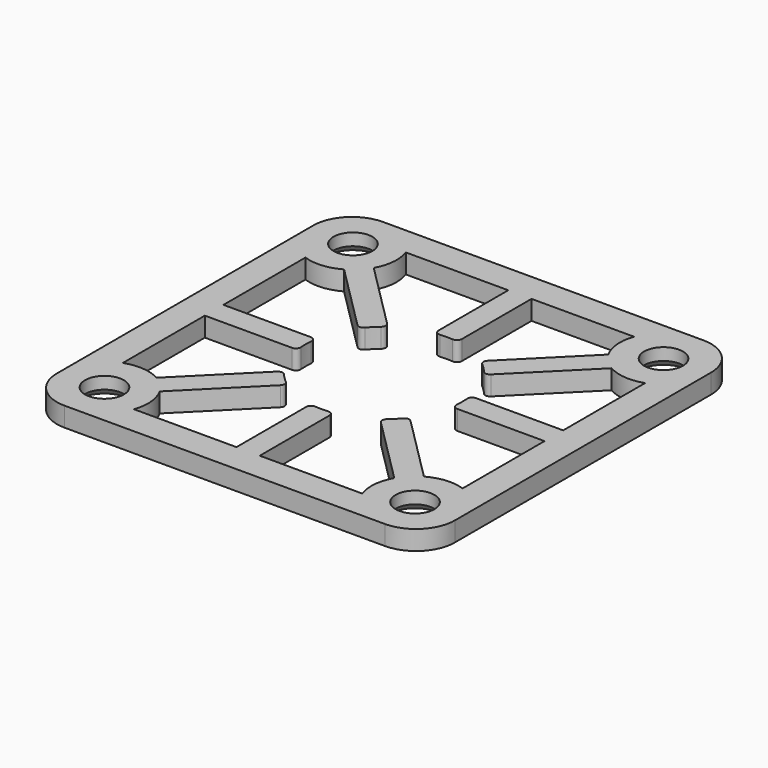
from build123d import *

# Parameters (mm, degrees)
SKETCH_W     = 41
SKETCH_H     = 41
SKETCH_R     = 2
PAD_DEPTH    = 2
FILLET_R     = 0.5
FILLET001_R  = 4
CHAMFER_SIZE = 0.75


with BuildPart() as part:
    # Sketch → Pad (new body)
    with BuildSketch(Plane.XY):
        Rectangle(SKETCH_W, SKETCH_H)
        with Locations((-16, 16)):
            Circle(SKETCH_R, mode=Mode.SUBTRACT)
        with Locations((16, 16)):
            Circle(SKETCH_R, mode=Mode.SUBTRACT)
        with Locations((-16, -16)):
            Circle(SKETCH_R, mode=Mode.SUBTRACT)
        with Locations((16, -16)):
            Circle(SKETCH_R, mode=Mode.SUBTRACT)
        with BuildLine():
            Line((-17.5, 1.2), (-7.960057, 1.2))
            ThreePointArc((-7.960057, 1.2), (-8.05, 0), (-7.960057, -1.2))
            Line((-17.5, -1.2), (-7.960057, -1.2))
            Line((-17.5, -1.2), (-17.5, -11.757359))
            ThreePointArc((-13.781771, -12.084715), (-15.605344, -11.517339), (-17.5, -11.757359))
            Line((-6.477138, -4.780082), (-13.781771, -12.084715))
            ThreePointArc((-6.477138, -4.780082), (-5.69221, -5.69221), (-4.780082, -6.477138))
            Line((-4.780082, -6.477138), (-12.084715, -13.781771))
            ThreePointArc((-11.757359, -17.5), (-11.517339, -15.605344), (-12.084715, -13.781771))
            Line((-11.757359, -17.5), (-1.2, -17.5))
            Line((-1.2, -7.960057), (-1.2, -17.5))
            ThreePointArc((-1.2, -7.960057), (0, -8.05), (1.2, -7.960057))
            Line((1.2, -7.960057), (1.2, -17.5))
            Line((1.2, -17.5), (11.757359, -17.5))
            ThreePointArc((12.084715, -13.781771), (11.517339, -15.605344), (11.757359, -17.5))
            Line((4.780082, -6.477138), (12.084715, -13.781771))
            ThreePointArc((4.780082, -6.477138), (5.69221, -5.69221), (6.477138, -4.780082))
            Line((6.477138, -4.780082), (13.781771, -12.084715))
            ThreePointArc((17.5, -11.757359), (15.605344, -11.517339), (13.781771, -12.084715))
            Line((17.5, -1.2), (17.5, -11.757359))
            Line((7.960057, -1.2), (17.5, -1.2))
            ThreePointArc((7.960057, -1.2), (8.05, 0), (7.960057, 1.2))
            Line((7.960057, 1.2), (17.5, 1.2))
            Line((17.5, 1.2), (17.5, 11.757359))
            ThreePointArc((13.781771, 12.084715), (15.605344, 11.517339), (17.5, 11.757359))
            Line((6.477138, 4.780082), (13.781771, 12.084715))
            ThreePointArc((6.477138, 4.780082), (5.69221, 5.69221), (4.780082, 6.477138))
            Line((4.780082, 6.477138), (12.084715, 13.781771))
            ThreePointArc((11.757359, 17.5), (11.517339, 15.605344), (12.084715, 13.781771))
            Line((1.2, 17.5), (11.757359, 17.5))
            Line((1.2, 7.960057), (1.2, 17.5))
            ThreePointArc((1.2, 7.960057), (0, 8.05), (-1.2, 7.960057))
            Line((-1.2, 7.960057), (-1.2, 17.5))
            Line((-11.757359, 17.5), (-1.2, 17.5))
            ThreePointArc((-12.084715, 13.781771), (-11.517339, 15.605344), (-11.757359, 17.5))
            Line((-4.780082, 6.477138), (-12.084715, 13.781771))
            ThreePointArc((-4.780082, 6.477138), (-5.69221, 5.69221), (-6.477138, 4.780082))
            Line((-6.477138, 4.780082), (-13.781771, 12.084715))
            ThreePointArc((-17.5, 11.757359), (-15.605344, 11.517339), (-13.781771, 12.084715))
            Line((-17.5, 1.2), (-17.5, 11.757359))
        make_face(mode=Mode.SUBTRACT)
    extrude(amount=PAD_DEPTH)

    # Fillet
    fillet_edges = [part.edges().sort_by_distance(p)[0] for p in [
        (-4.780082, -6.477138, 1),
        (-7.960057, -1.2, 1),
        (-7.960057, 1.2, 1),
        (-6.477138, 4.780082, 1),
        (-4.780082, 6.477138, 1),
        (-1.2, 7.960057, 1),
        (1.2, 7.960057, 1),
        (4.780082, 6.477138, 1),
        (6.477138, 4.780082, 1),
        (7.960057, 1.2, 1),
        (7.960057, -1.2, 1),
        (4.780082, -6.477138, 1),
        (-6.477138, -4.780082, 1),
        (-1.2, -7.960057, 1),
        (1.2, -7.960057, 1),
        (6.477138, -4.780082, 1),
    ]]
    fillet(fillet_edges, radius=FILLET_R)

    # Fillet001
    fillet001_edges = [part.edges().sort_by_distance(p)[0] for p in [
        (20.5, -20.5, 1),
        (20.5, 20.5, 1),
        (-20.5, 20.5, 1),
        (-20.5, -20.5, 1),
    ]]
    fillet(fillet001_edges, radius=FILLET001_R)

    # Chamfer
    chamfer_edges = [part.edges().sort_by_distance(p)[0] for p in [
        (14, -16, 0),
        (-18, -16, 0),
        (-18, 16, 0),
        (14, 16, 0),
    ]]
    chamfer(chamfer_edges, length=CHAMFER_SIZE)


solid = part.part
